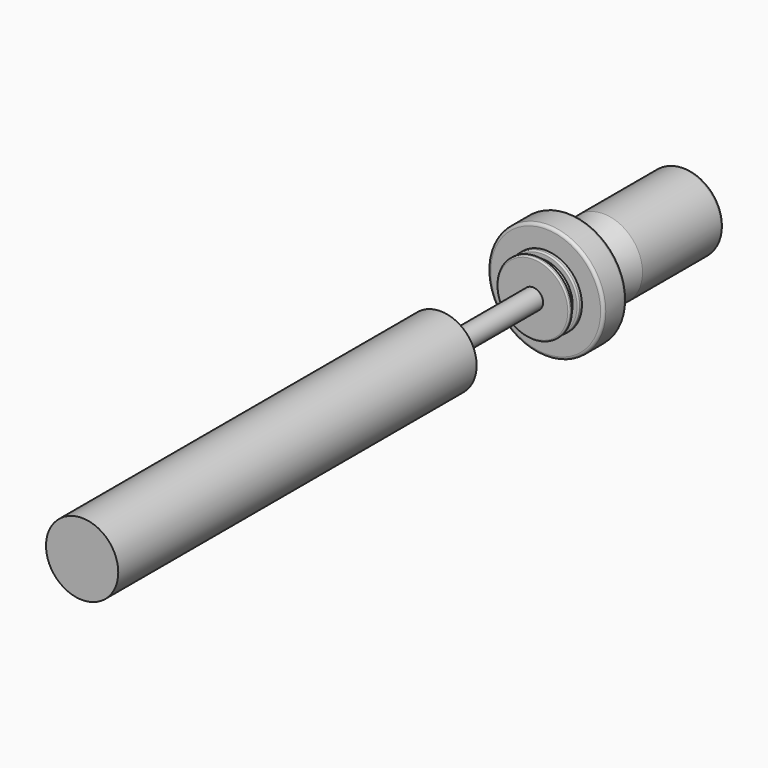
from build123d import *

# Parameters (mm, degrees)
F2_R = 1
F3_R = 0.5


with BuildPart() as f1:
    # F0 (on Top) → F1 (revolve)
    with BuildSketch(Plane.XY):
        Polygon((-3.6821774035, 190.7395421601), (-3.6821774035, -69.7604578399), (8.8178225965, -69.7604578399), (8.8178225965, 85.2395421601), (-0.1821774035, 85.2395421601), (-0.1821774035, 125.2395421601), (-0.1821774035, 130.7395421601), (8.8678225965, 130.7395421601), (16.3178225965, 130.7395421601), (16.3178225965, 140.7395421601), (6.3178225965, 140.7395421601), (9.8178225965, 155.7395421601), (9.8178225965, 190.7395421601), align=None)
        Polygon((-0.1821774035, 130.7395421601), (-0.1821774035, 125.2395421601), (8.8678225965, 125.2395421601), (8.8678225965, 126.7395421601), (6.8678225965, 126.7395421601), (6.8678225965, 129.2395421601), (8.8678225965, 129.2395421601), (8.8678225965, 130.7395421601), align=None)
    revolve(axis=Axis((-3.6821774035, 60.4895421601, 0), (0, 1, 0)))

    # F2
    f2_edges = [f1.edges().sort_by_distance(p)[0] for p in [
        (-17.182177, 190.739542, 0),
        (-23.682177, 140.739542, 0),
        (-23.682177, 130.739542, 0),
    ]]
    fillet(f2_edges, radius=F2_R)

    # F3
    f3_edges = [f1.edges().sort_by_distance(p)[0] for p in [
        (-16.232177, 125.239542, 0),
        (-16.232177, 126.739542, 0),
        (-16.232177, 129.239542, 0),
    ]]
    fillet(f3_edges, radius=F3_R)


solid = f1.part
